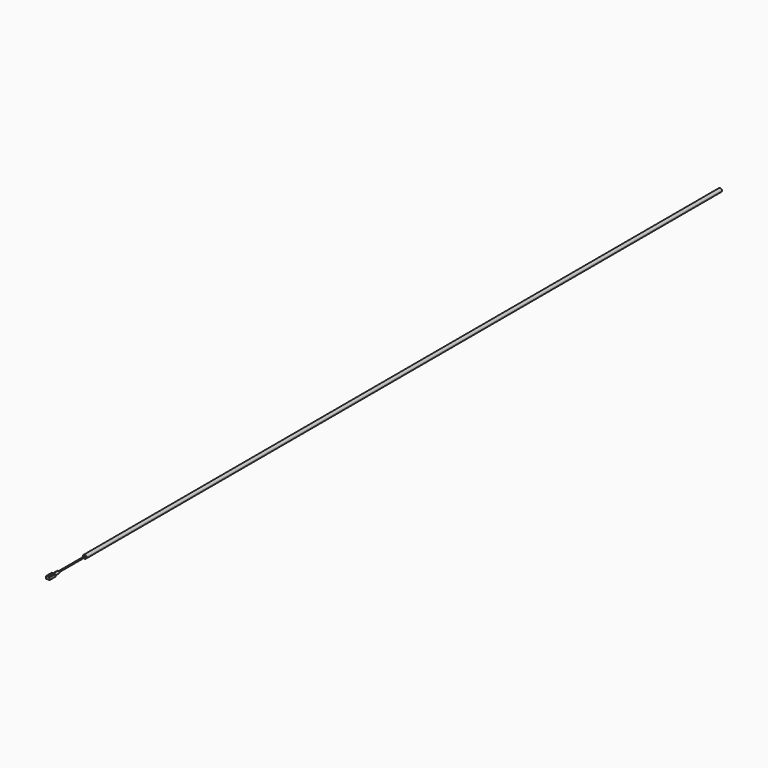
from build123d import *

# Parameters (mm, degrees)
F0_W      = 10
F0_H      = 7
F1_DEPTH  = 20
F2_W      = 5
F2_H      = 16
F3_DEPTH  = 7
F4_W      = 5
F4_H      = 3
F5_DEPTH  = 7
F7_DEPTH  = 5
F9_DEPTH  = 16
F10_R     = 1.5
F11_DEPTH = 94
F12_R     = 5
F13_DEPTH = 2238


with BuildPart() as f1:
    # F0 (on Front) → F1 (new body)
    with BuildSketch(Plane.XZ):
        Rectangle(F0_W, F0_H)
    extrude(amount=F1_DEPTH)

    # F2 (on face) → F3 (cut, through all)
    with BuildSketch(Plane.XY.offset(3.5)):
        with Locations((0, -10)):
            Rectangle(F2_W, F2_H)
    extrude(amount=-F3_DEPTH, mode=Mode.SUBTRACT)

    # F4 (on face) → F5 (join, through all)
    with BuildSketch(Plane(origin=(0, 0, -3.5), x_dir=(1, 0, 0), z_dir=(0, 0, -1))):
        with Locations((0, 3.5)):
            Rectangle(F4_W, F4_H)
        with Locations((0, 16.5)):
            Rectangle(F4_W, F4_H)
    extrude(amount=-F5_DEPTH)

    # F6 (on face) → F7 (cut, through all)
    with BuildSketch(Plane(origin=(2.5, 0, 0), x_dir=(0, -1, 0), z_dir=(-1, 0, 0))):
        Polygon((2.5, 3.5), (5, 1.841688), (5, 3.5), align=None)
        Polygon((2.5, -3.5), (5, -3.5), (5, -1.841688), align=None)
        Polygon((17.5, 3.5), (15, 3.5), (15, 1.841688), align=None)
    extrude(amount=F7_DEPTH, mode=Mode.SUBTRACT)

    # F8 (on face) → F9 (join)
    with BuildSketch(Plane(origin=(0, 0, 0), x_dir=(-1, 0, 0), z_dir=(0, 1, 0))):
        with BuildLine():
            ThreePointArc((0, -3.5), (2.474874, -2.474874), (3.5, 0))
            ThreePointArc((3.5, 0), (2.474874, 2.474874), (0, 3.5))
            ThreePointArc((0, 3.5), (-3.5, 0), (0, -3.5))
        make_face()
    extrude(amount=F9_DEPTH)

    # F10 (on face) → F11 (join)
    with BuildSketch(Plane(origin=(0, 16, 0), x_dir=(-1, 0, 0), z_dir=(0, 1, 0))):
        Circle(F10_R)
    extrude(amount=F11_DEPTH)

    # F12 (on face) → F13 (join)
    with BuildSketch(Plane(origin=(0, 110, 0), x_dir=(-1, 0, 0), z_dir=(0, 1, 0))):
        Circle(F12_R)
    extrude(amount=F13_DEPTH)


solid = f1.part
